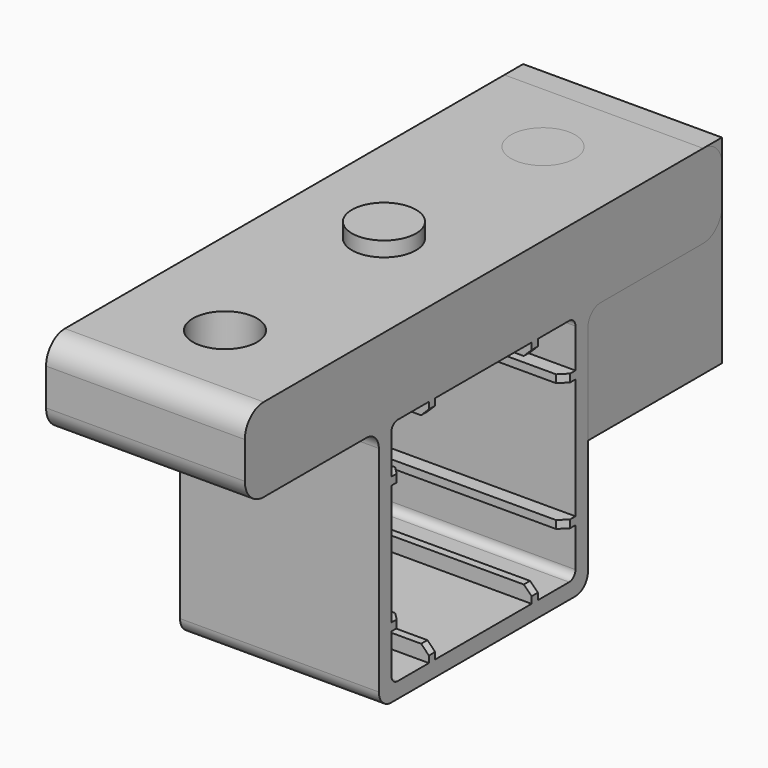
from build123d import *

# Parameters (mm, degrees)
BOX011_W          = 25.4
BOX011_H          = 23.4
BOX011_DEPTH      = 25.4
CYLINDER001_R     = 4.1
CYLINDER001_DEPTH = 14
BOX004_W          = 25.4
BOX004_H          = 3.85
BOX004_DEPTH      = 1
BOX007_W          = 25.4
BOX007_H          = 1
BOX007_DEPTH      = 3.85
BOX006_W          = 25.4
BOX006_H          = 1
BOX006_DEPTH      = 3.85
BOX002_W          = 25.4
BOX002_H          = 3.85
BOX002_DEPTH      = 1
BOX003_W          = 25.4
BOX003_H          = 3.85
BOX003_DEPTH      = 1
BOX009_W          = 25.4
BOX009_H          = 1
BOX009_DEPTH      = 3.85
BOX008_W          = 25.4
BOX008_H          = 1
BOX008_DEPTH      = 3.85
BOX005_W          = 25.4
BOX005_H          = 3.85
BOX005_DEPTH      = 1
CYLINDER_R        = 4.1
CYLINDER_DEPTH    = 14
CYLINDER002_R     = 4.1
CYLINDER002_DEPTH = 14
BOX010_W          = 25.4
BOX010_H          = 76.2
BOX010_DEPTH      = 10.7
BOX_W             = 52
BOX_H             = 29.4
BOX_DEPTH         = 29.4
FILLET001_R       = 1
BOX001_W          = 25.4
BOX001_H          = 33.4
BOX001_DEPTH      = 33.4
FILLET_R          = 2
FILLET002_R       = 2
FILLET003_R       = 3
CHAMFER_SIZE      = 1


with BuildPart() as cube011:
    # Box011 → Box011 (new body)
    with BuildSketch(Plane(origin=(0, 31.4, 16.7), x_dir=(1, 0, 0), z_dir=(0, 0, 1))):
        with Locations((12.7, 11.7)):
            Rectangle(BOX011_W, BOX011_H)
    extrude(amount=BOX011_DEPTH)


with BuildPart() as cylinder001:
    # Cylinder001 → Cylinder001 (new body)
    with BuildSketch(Plane(origin=(12.7, 16.7, 30), x_dir=(1, 0, 0), z_dir=(0, 0, 1))):
        Circle(CYLINDER001_R)
    extrude(amount=CYLINDER001_DEPTH)


with BuildPart() as cube004:
    # Box004 → Box004 (new body)
    with BuildSketch(Plane(origin=(0, 29.55, 8), x_dir=(1, 0, 0), z_dir=(0, 0, 1))):
        with Locations((12.7, 1.925)):
            Rectangle(BOX004_W, BOX004_H)
    extrude(amount=BOX004_DEPTH)


with BuildPart() as cube007:
    # Box007 → Box007 (new body)
    with BuildSketch(Plane(origin=(0, 24.4, 0), x_dir=(1, 0, 0), z_dir=(0, 0, 1))):
        with Locations((12.7, 0.5)):
            Rectangle(BOX007_W, BOX007_H)
    extrude(amount=BOX007_DEPTH)


with BuildPart() as cube006:
    # Box006 → Box006 (new body)
    with BuildSketch(Plane(origin=(0, 8, 0), x_dir=(1, 0, 0), z_dir=(0, 0, 1))):
        with Locations((12.7, 0.5)):
            Rectangle(BOX006_W, BOX006_H)
    extrude(amount=BOX006_DEPTH)


with BuildPart() as cube002:
    # Box002 → Box002 (new body)
    with BuildSketch(Plane.XY.offset(8)):
        with Locations((12.7, 1.925)):
            Rectangle(BOX002_W, BOX002_H)
    extrude(amount=BOX002_DEPTH)


with BuildPart() as cube003:
    # Box003 → Box003 (new body)
    with BuildSketch(Plane.XY.offset(24.4)):
        with Locations((12.7, 1.925)):
            Rectangle(BOX003_W, BOX003_H)
    extrude(amount=BOX003_DEPTH)


with BuildPart() as cube009:
    # Box009 → Box009 (new body)
    with BuildSketch(Plane(origin=(0, 8, 29.55), x_dir=(1, 0, 0), z_dir=(0, 0, 1))):
        with Locations((12.7, 0.5)):
            Rectangle(BOX009_W, BOX009_H)
    extrude(amount=BOX009_DEPTH)


with BuildPart() as cube008:
    # Box008 → Box008 (new body)
    with BuildSketch(Plane(origin=(0, 24.4, 29.55), x_dir=(1, 0, 0), z_dir=(0, 0, 1))):
        with Locations((12.7, 0.5)):
            Rectangle(BOX008_W, BOX008_H)
    extrude(amount=BOX008_DEPTH)


with BuildPart() as cube005:
    # Box005 → Box005 (new body)
    with BuildSketch(Plane(origin=(0, 29.55, 24.4), x_dir=(1, 0, 0), z_dir=(0, 0, 1))):
        with Locations((12.7, 1.925)):
            Rectangle(BOX005_W, BOX005_H)
    extrude(amount=BOX005_DEPTH)


with BuildPart() as cylinder:
    # Cylinder → Cylinder (new body)
    with BuildSketch(Plane(origin=(12.7, 42.1, 30), x_dir=(1, 0, 0), z_dir=(0, 0, 1))):
        Circle(CYLINDER_R)
    extrude(amount=CYLINDER_DEPTH)


with BuildPart() as cylinder002:
    # Cylinder002 → Cylinder002 (new body)
    with BuildSketch(Plane(origin=(12.7, -8.7, 30), x_dir=(1, 0, 0), z_dir=(0, 0, 1))):
        Circle(CYLINDER002_R)
    extrude(amount=CYLINDER002_DEPTH)


with BuildPart() as cube010:
    # Box010 → Box010 (new body)
    with BuildSketch(Plane(origin=(0, -21.4, 31.4), x_dir=(1, 0, 0), z_dir=(0, 0, 1))):
        with Locations((12.7, 38.1)):
            Rectangle(BOX010_W, BOX010_H)
    extrude(amount=BOX010_DEPTH)


with BuildPart() as fillet001:
    # Box → Box (new body)
    with BuildSketch(Plane(origin=(-1, 2, 2), x_dir=(1, 0, 0), z_dir=(0, 0, 1))):
        with Locations((26, 14.7)):
            Rectangle(BOX_W, BOX_H)
    extrude(amount=BOX_DEPTH)

    # Fillet001
    fillet001_edges = [fillet001.edges().sort_by_distance(p)[0] for p in [
        (25, 2, 31.4),
        (25, 2, 2),
        (25, 31.4, 31.4),
        (25, 31.4, 2),
    ]]
    fillet(fillet001_edges, radius=FILLET001_R)


with BuildPart() as chamfer_body:
    # Box001 → Box001 (new body)
    with BuildSketch(Plane.XY):
        with Locations((12.7, 16.7)):
            Rectangle(BOX001_W, BOX001_H)
    extrude(amount=BOX001_DEPTH)

    # Fillet
    fillet_edges = [chamfer_body.edges().sort_by_distance(p)[0] for p in [
        (12.7, 33.4, 0),
        (12.7, 0, 0),
        (12.7, 0, 33.4),
        (12.7, 33.4, 33.4),
    ]]
    fillet(fillet_edges, radius=FILLET_R)

    # Cut: cut Fillet001
    add(fillet001.part, mode=Mode.SUBTRACT)

    # Fusion: union Cube010
    add(cube010.part)

    # Fillet002
    fillet002_edges = [chamfer_body.edges().sort_by_distance(p)[0] for p in [
        (12.7, 33.4, 31.4),
        (12.7, 0, 31.4),
    ]]
    fillet(fillet002_edges, radius=FILLET002_R)

    # Fillet003
    fillet003_edges = [chamfer_body.edges().sort_by_distance(p)[0] for p in [
        (12.7, -21.4, 31.4),
        (12.7, -21.4, 42.1),
        (12.7, 54.8, 31.4),
        (12.7, 54.8, 42.1),
    ]]
    fillet(fillet003_edges, radius=FILLET003_R)

    # Cut001: cut Cylinder002
    add(cylinder002.part, mode=Mode.SUBTRACT)

    # Cut002: cut Cylinder
    add(cylinder.part, mode=Mode.SUBTRACT)

    # Fusion001: union Cube004, Cube007, Cube006, Cube002, Cube003, Cube009, Cube008, Cube005
    add(cube004.part)
    add(cube007.part)
    add(cube006.part)
    add(cube002.part)
    add(cube003.part)
    add(cube009.part)
    add(cube008.part)
    add(cube005.part)

    # Chamfer
    chamfer_edges = [chamfer_body.edges().sort_by_distance(p)[0] for p in [
        (25.4, 8.5, 29.55),
        (25.4, 3.85, 24.9),
        (25.4, 3.85, 8.5),
        (25.4, 8.5, 3.85),
        (25.4, 24.9, 3.85),
        (25.4, 29.55, 8.5),
        (25.4, 29.55, 24.9),
        (25.4, 24.9, 29.55),
        (0, 29.55, 8.5),
        (0, 24.9, 3.85),
        (0, 8.5, 3.85),
        (0, 3.85, 8.5),
        (0, 3.85, 24.9),
        (0, 8.5, 29.55),
        (0, 24.9, 29.55),
        (0, 29.55, 24.9),
    ]]
    chamfer(chamfer_edges, length=CHAMFER_SIZE)


solid = Compound([cube011.part, cylinder001.part, chamfer_body.part])
